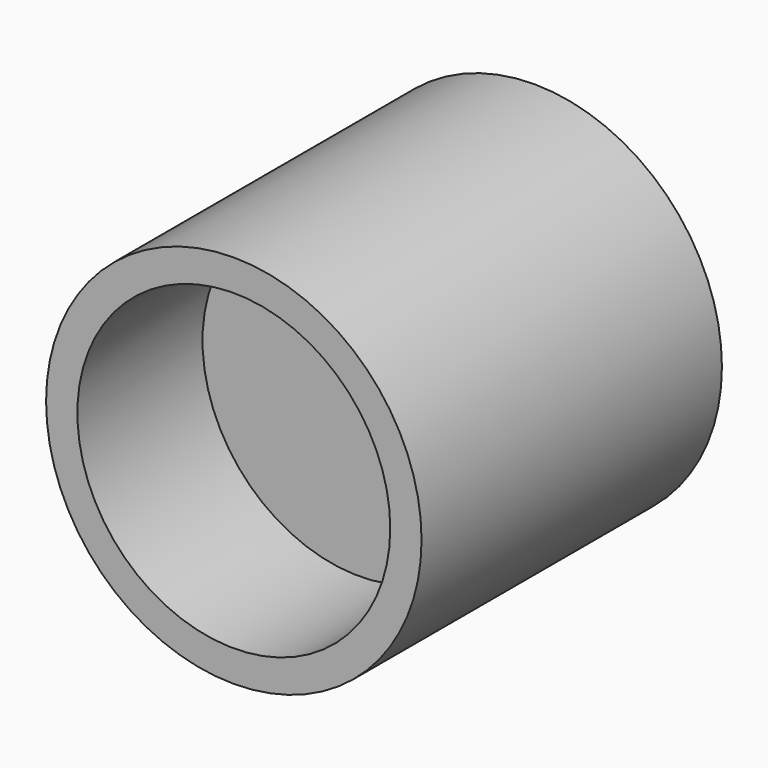
from build123d import *

# Parameters (mm, degrees)
F0_R     = 30
F1_DEPTH = 30
F2_R     = 25
F3_DEPTH = 25
F4_DEPTH = 30
F5_R     = 25
F6_DEPTH = 25


with BuildPart() as f1:
    # F0 (on Front) → F1 (new body)
    with BuildSketch(Plane.XZ):
        Circle(F0_R)
    extrude(amount=F1_DEPTH)

    # F2 (on face) → F3 (cut)
    with BuildSketch(Plane(origin=(0, 0, 0), x_dir=(-1, 0, 0), z_dir=(0, 1, 0))):
        Circle(F2_R)
    extrude(amount=-F3_DEPTH, mode=Mode.SUBTRACT)

    # F4 (add): a face of the model
    f4_faces = [f1.faces().sort_by_distance(p)[0] for p in [
        (0, -30, 0),
    ]]
    extrude(f4_faces, amount=F4_DEPTH)

    # F5 (on face) → F6 (cut)
    with BuildSketch(Plane.XZ.offset(60)):
        Circle(F5_R)
    extrude(amount=-F6_DEPTH, mode=Mode.SUBTRACT)


solid = f1.part
